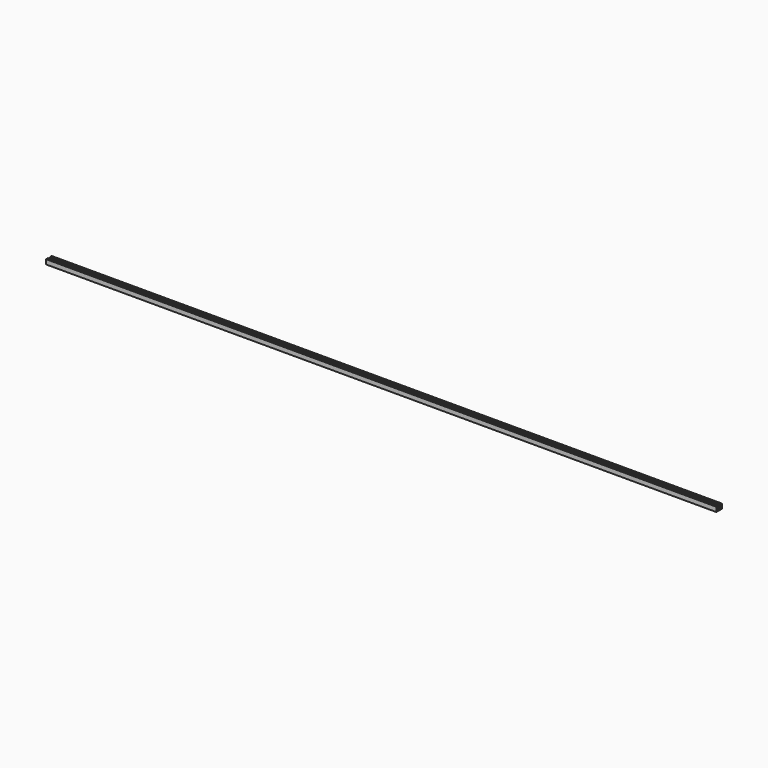
from build123d import *

# Parameters (mm, degrees)
F1_DEPTH = 1828.8


with BuildPart() as f1:
    # F0 (on Right) → F1 (new body)
    with BuildSketch(Plane.YZ):
        Polygon((-9.525, 6.35), (-9.525, -6.35), (9.525, -6.35), (9.525, 6.35), (3.175, 6.35), (3.175, 3.175), (6.35, 3.175), (6.35, -1.5875), (3.175, -1.5875), (3.175, -3.175), (-3.175, -3.175), (-3.175, -1.5875), (-6.35, -1.5875), (-6.35, 3.175), (-3.175, 3.175), (-3.175, 6.35), align=None)
    extrude(amount=F1_DEPTH)


solid = f1.part
